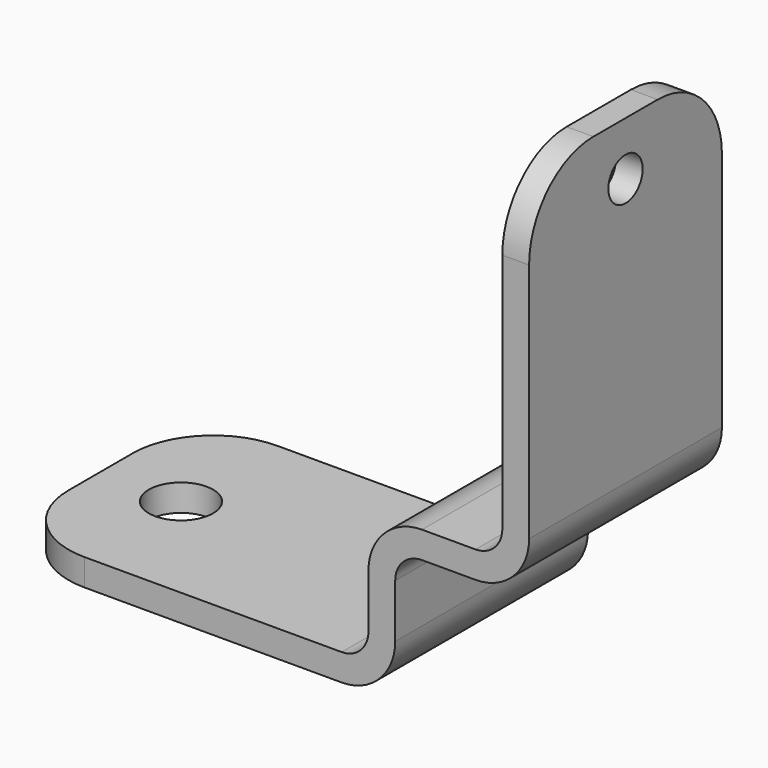
from build123d import *

# Parameters (mm, degrees)
F1_DEPTH = 22.5
F2_R     = 15
F3_R     = 4
F4_DEPTH = 98.001
F5_R     = 6
F6_DEPTH = 25


with BuildPart() as f1:
    # F0 (on Front) → F1 (new body, symmetric)
    with BuildSketch(Plane.XZ):
        with BuildLine():
            Line((0, 35), (0, 95))
            Line((0, 95), (-5, 95))
            Line((-5, 95), (-5, 35))
            ThreePointArc((-5, 35), (-6.464466, 31.464466), (-10, 30))
            Line((-10, 30), (-20, 30))
            ThreePointArc((-20, 30), (-27.071068, 27.071068), (-30, 20))
            Line((-30, 20), (-30, 10))
            ThreePointArc((-30, 10), (-31.464466, 6.464466), (-35, 5))
            Line((-35, 5), (-98, 5))
            Line((-98, 5), (-98, 0))
            Line((-98, 0), (-35, 0))
            ThreePointArc((-35, 0), (-27.928932, 2.928932), (-25, 10))
            Line((-25, 10), (-25, 20))
            ThreePointArc((-25, 20), (-23.535534, 23.535534), (-20, 25))
            Line((-20, 25), (-10, 25))
            ThreePointArc((-10, 25), (-2.928932, 27.928932), (0, 35))
        make_face()
    extrude(amount=F1_DEPTH, both=True)

    # F2
    f2_edges = [f1.edges().sort_by_distance(p)[0] for p in [
        (-98, -22.5, 2.5),
        (-2.5, -22.5, 95),
        (-2.5, 22.5, 95),
        (-98, 22.5, 2.5),
    ]]
    fillet(f2_edges, radius=F2_R)

    # F3 (on face) → F4 (cut, through all)
    with BuildSketch(Plane.YZ):
        with Locations((0, 85)):
            Circle(F3_R)
    extrude(amount=-F4_DEPTH, mode=Mode.SUBTRACT)

    # F5 (on Top) → F6 (cut)
    with BuildSketch(Plane.XY):
        with Locations((-83, 0)):
            Circle(F5_R)
    extrude(amount=F6_DEPTH, mode=Mode.SUBTRACT)


solid = f1.part
